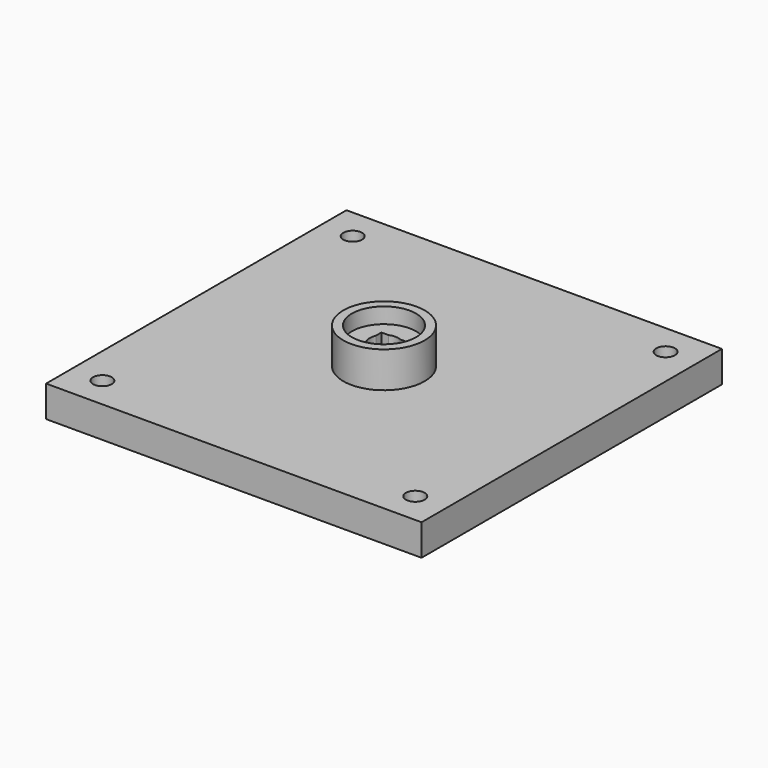
from build123d import *

# Parameters (mm, degrees)
F0_W      = 60
F0_H      = 60
F1_DEPTH  = 10
F2_R      = 3
F3_DEPTH  = 25
F4_R      = 4.5
F5_DEPTH  = 5
F6_R      = 13
F7_DEPTH  = 11.5
F8_R      = 4.5
F9_DEPTH  = 25
F10_W     = 8.2
F10_H     = 8.2
F11_DEPTH = 9.2
F12_R     = 10.25
F13_DEPTH = 5


with BuildPart() as f1:
    # F0 (on Top) → F1 (new body)
    with BuildSketch(Plane.XY):
        with Locations((-30, 30)):
            Rectangle(F0_W, F0_H)
        with Locations((-30, -30)):
            Rectangle(F0_W, F0_H)
        with Locations((30, 30)):
            Rectangle(F0_W, F0_H)
        with Locations((30, -30)):
            Rectangle(F0_W, F0_H)
    extrude(amount=F1_DEPTH)

    # F2 (on face) → F3 (cut)
    with BuildSketch(Plane.XY.offset(10)):
        with Locations((-50, 50)):
            Circle(F2_R)
        with Locations((50, 50)):
            Circle(F2_R)
        with Locations((-50, -50)):
            Circle(F2_R)
        with Locations((50, -50)):
            Circle(F2_R)
    extrude(amount=-F3_DEPTH, mode=Mode.SUBTRACT)

    # F4 (on face) → F5 (cut)
    with BuildSketch(Plane(origin=(0, 0, 0), x_dir=(1, 0, 0), z_dir=(0, 0, -1))):
        with Locations((-50, 50)):
            Circle(F4_R)
        with Locations((50, 50)):
            Circle(F4_R)
        with Locations((-50, -50)):
            Circle(F4_R)
        with Locations((50, -50)):
            Circle(F4_R)
    extrude(amount=-F5_DEPTH, mode=Mode.SUBTRACT)

    # F6 (on face) → F7 (join)
    with BuildSketch(Plane.XY.offset(10)):
        Circle(F6_R)
    extrude(amount=F7_DEPTH)

    # F8 (on face) → F9 (cut)
    with BuildSketch(Plane.XY.offset(21.5)):
        Circle(F8_R)
    extrude(amount=-F9_DEPTH, mode=Mode.SUBTRACT)

    # F10 (on face) → F11 (cut)
    with BuildSketch(Plane.XY.offset(21.5)):
        Rectangle(F10_W, F10_H)
    extrude(amount=-F11_DEPTH, mode=Mode.SUBTRACT)

    # F12 (on face) → F13 (cut)
    with BuildSketch(Plane.XY.offset(21.5)):
        Circle(F12_R)
    extrude(amount=-F13_DEPTH, mode=Mode.SUBTRACT)


solid = f1.part
